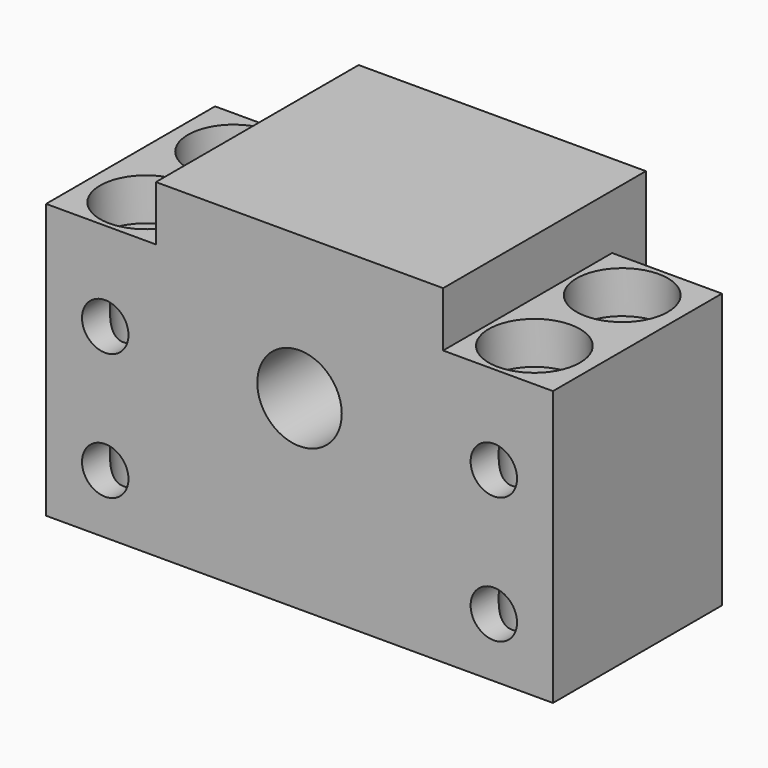
from build123d import *

# Parameters (mm, degrees)
F0_W           = 34
F0_H           = 6.5
F0_H_2         = 27.5
F0_R           = 5
F0_R_2         = 2.75
F1_DEPTH       = 25
F2_DEPTH       = 5
F4_D           = 6.6
F4_CBORE_D     = 10.8
F4_CBORE_DEPTH = 5


with BuildPart() as f1:
    # F0 (on Front) → F1 (new body)
    with BuildSketch(Plane.XZ):
        with Locations((0, 13.75)):
            Rectangle(F0_W, F0_H)
        with Locations((0, -3.25)):
            Rectangle(F0_W, F0_H_2)
        Circle(F0_R, mode=Mode.SUBTRACT)
        Polygon((-17, -17), (-17, 10.5), (-30, 10.5), (-30, -22), (30, -22), (30, 10.5), (17, 10.5), (17, -17), align=None)
        with Locations((-23, -15)):
            Circle(F0_R_2, mode=Mode.SUBTRACT)
        with Locations((23, -15)):
            Circle(F0_R_2, mode=Mode.SUBTRACT)
        with Locations((-23, 0)):
            Circle(F0_R_2, mode=Mode.SUBTRACT)
        with Locations((23, 0)):
            Circle(F0_R_2, mode=Mode.SUBTRACT)
    extrude(amount=F1_DEPTH)

    # F0 (on Front) → F2 (join)
    with BuildSketch(Plane.XZ):
        with Locations((0, 13.75)):
            Rectangle(F0_W, F0_H)
        with Locations((0, -3.25)):
            Rectangle(F0_W, F0_H_2)
        Circle(F0_R, mode=Mode.SUBTRACT)
    extrude(amount=-F2_DEPTH)

    # F4 (through all)
    with Locations(Plane.XY.offset(10.5)):
        with Locations((-23, -6), (-23, -19), (23, -19), (23, -6)):
            CounterBoreHole(F4_D / 2, F4_CBORE_D / 2, F4_CBORE_DEPTH)


solid = f1.part
